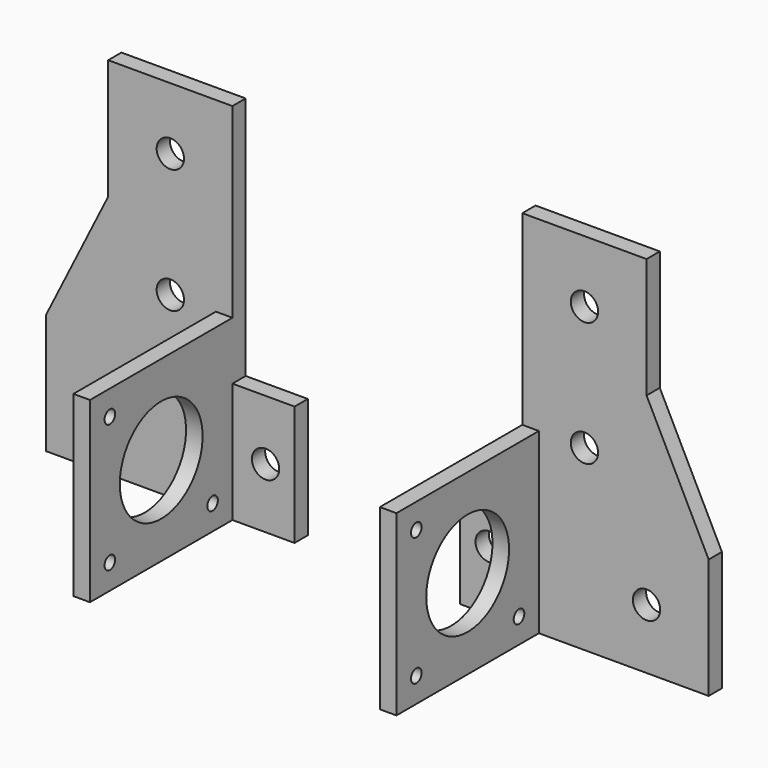
from build123d import *

# Parameters (mm, degrees)
F1_DEPTH = 4
F3_DEPTH = 43
F4_R     = 12.5
F5_DEPTH = 45.001
F6_D     = 3.2
F8_D     = 6.6


with BuildPart() as f1:
    # F0 (on Front) → F1 (new body)
    with BuildSketch(Plane.XZ):
        Polygon((-15, 0), (-30, 0), (-30, -29), (30, -29), (30, 0), (15, 30), (15, 59), (-15, 59), align=None)
    extrude(amount=F1_DEPTH)

    # F2 (on face) → F3 (join)
    with BuildSketch(Plane.XZ.offset(4)):
        Polygon((-11, 14), (-15, 14), (-15, 0), (-15, -29), (-11, -29), align=None)
    extrude(amount=F3_DEPTH)

    # F4 (on face) → F5 (cut, through all)
    with BuildSketch(Plane(origin=(-15, 0, 0), x_dir=(0, -1, 0), z_dir=(-1, 0, 0))):
        with Locations((25.5, -7.5)):
            Circle(F4_R)
    extrude(amount=-F5_DEPTH, mode=Mode.SUBTRACT)

    # F6 (through all)
    with Locations(Plane(origin=(-15, 0, 0), x_dir=(0, -1, 0), z_dir=(-1, 0, 0))):
        with Locations((41, 8), (41, -23), (10, -23)):
            Hole(F6_D / 2)

    # F8 (through all)
    with Locations(Plane.XZ.offset(4)):
        with Locations((0, 44), (15, -14.5), (-23, -14.5), (0, 14)):
            Hole(F8_D / 2)


with BuildPart() as f11_1:
    # F11: instance of F1
    add(f1.part.mirror(Plane.YZ.offset(-50)))


solid = Compound([f1.part, f11_1.part])
